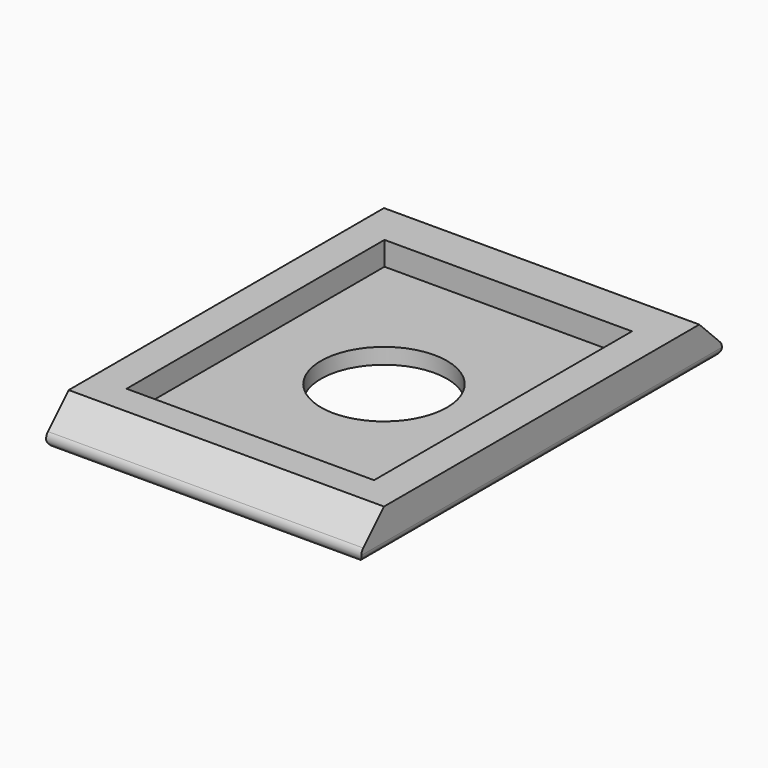
from build123d import *

# Parameters (mm, degrees)
PAD031_DEPTH    = 10
SKETCH069_W     = 15.7
SKETCH069_H     = 20.45
POCKET022_DEPTH = 1.5
FILLET010_R     = 0.5
SKETCH083_R     = 4
POCKET024_DEPTH = 4.001


with BuildPart() as part:
    # Sketch068 → Pad031 (new body, symmetric)
    with BuildSketch(Plane.YZ):
        Polygon((-15, -4), (15, -4), (12.5, -1.5), (-12.5, -1.5), align=None)
    extrude(amount=PAD031_DEPTH, both=True)

    # Sketch069 → Pocket022 (cut)
    with BuildSketch(Plane(origin=(0, 2, -1.5), x_dir=(1, 0, 0), z_dir=(0, 0, 1))):
        with Locations((0, -2.375)):
            Rectangle(SKETCH069_W, SKETCH069_H)
    extrude(amount=-POCKET022_DEPTH, mode=Mode.SUBTRACT)

    # Fillet010
    fillet010_edges = [part.edges().sort_by_distance(p)[0] for p in [
        (0, -15, -4),
        (0, 15, -4),
        (-10, 0, -4),
        (10, 0, -4),
    ]]
    fillet(fillet010_edges, radius=FILLET010_R)

    # Sketch083 → Pocket024 (cut, through all)
    with BuildSketch(Plane.XY):
        Circle(SKETCH083_R)
    extrude(amount=-POCKET024_DEPTH, mode=Mode.SUBTRACT)


with BuildPart() as part_1:
    # Body022 placement: moved
    add(part.part.moved(Location((0, -2, 2.5))))


solid = part_1.part
